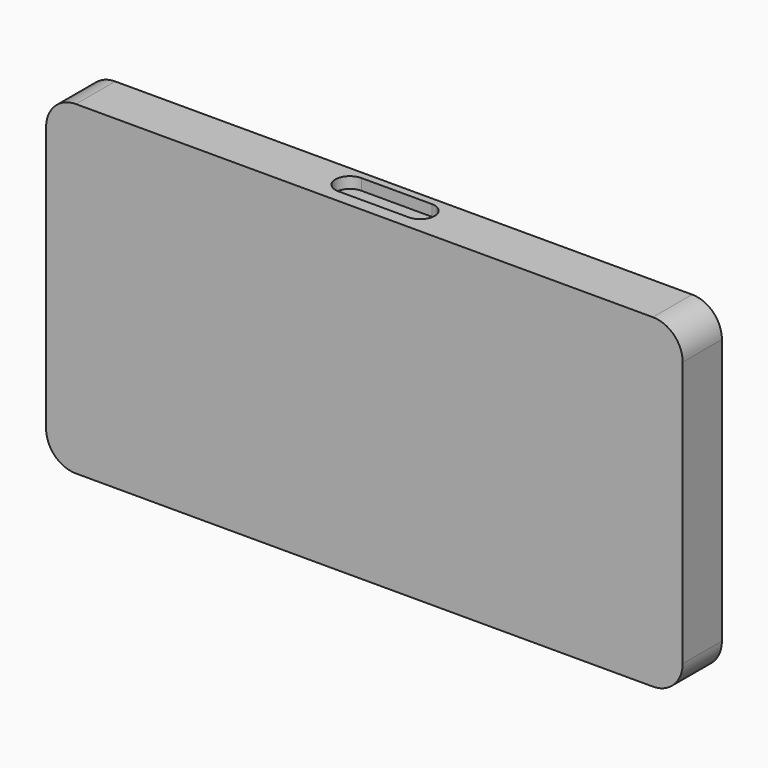
from build123d import *

# Parameters (mm, degrees)
F0_W     = 151.638
F0_H     = 77.47
F1_DEPTH = 11.684
F2_R     = 7.112
F4_DEPTH = 2.667
F6_DEPTH = 1.27


with BuildPart() as f1:
    # F0 (on Front) → F1 (new body)
    with BuildSketch(Plane.XZ):
        with Locations((75.819, 38.735)):
            Rectangle(F0_W, F0_H)
    extrude(amount=F1_DEPTH)

    # F2
    f2_edges = [f1.edges().sort_by_distance(p)[0] for p in [
        (0, -5.842, 77.47),
        (151.638, -5.842, 77.47),
        (151.638, -5.842, 0),
        (0, -5.842, 0),
    ]]
    fillet(f2_edges, radius=F2_R)

    # F3 (on face) → F4 (cut)
    with BuildSketch(Plane.XY.offset(77.47)):
        with BuildLine():
            Line((83.947, -1.778), (67.183, -1.778))
            ThreePointArc((67.183, -1.778), (63.754, -5.207), (67.183, -8.636))
            Line((67.183, -8.636), (83.947, -8.636))
            ThreePointArc((83.947, -8.636), (87.376, -5.207), (83.947, -1.778))
        make_face()
    extrude(amount=-F4_DEPTH, mode=Mode.SUBTRACT)

    # F5 (on face) → F6 (cut)
    with BuildSketch(Plane(origin=(0, 0, 0), x_dir=(-1, 0, 0), z_dir=(0, 1, 0))):
        with BuildLine():
            Line((-147.447, 70.358), (-147.447, 7.112))
            ThreePointArc((-147.447, 7.112), (-146.591459, 5.046541), (-144.526, 4.191))
            Line((-144.526, 4.191), (-7.112, 4.191))
            ThreePointArc((-7.112, 4.191), (-5.046541, 5.046541), (-4.191, 7.112))
            Line((-4.191, 7.112), (-4.191, 70.358))
            ThreePointArc((-4.191, 70.358), (-5.046541, 72.423459), (-7.112, 73.279))
            Line((-7.112, 73.279), (-144.526, 73.279))
            ThreePointArc((-144.526, 73.279), (-146.591459, 72.423459), (-147.447, 70.358))
        make_face()
    extrude(amount=-F6_DEPTH, mode=Mode.SUBTRACT)


solid = f1.part
